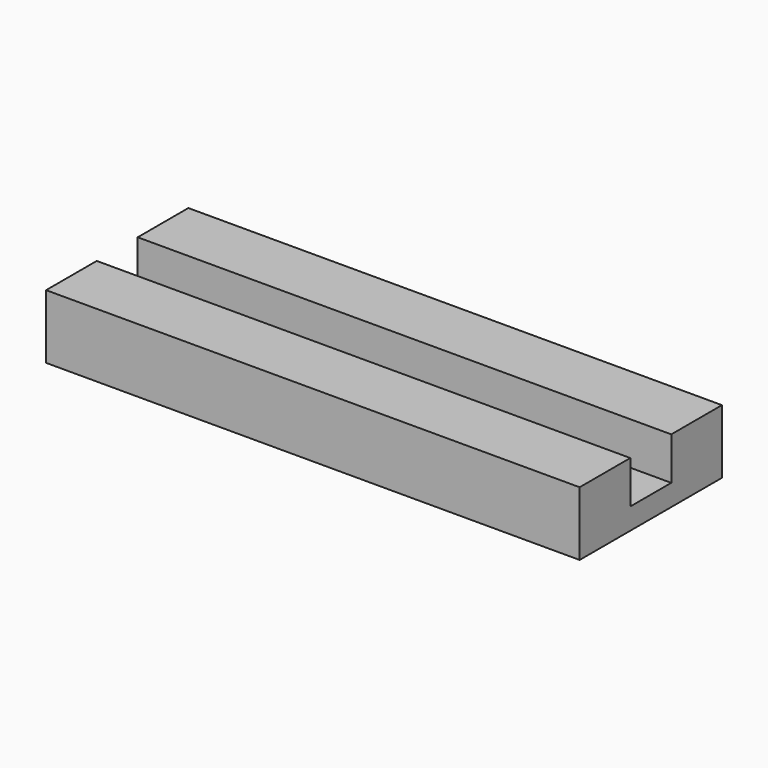
from build123d import *

# Parameters (mm, degrees)
F0_W     = 19.05
F0_H     = 1.8288
F0_R     = 0.3175
F1_DEPTH = 0.762
F0_H_2   = 2.2606
F2_DEPTH = 2.286


with BuildPart() as f1:
    # F0 (on Top) → F1 (new body)
    with BuildSketch(Plane.XY):
        Rectangle(F0_W, F0_H)
        with Locations((-6.35, 0)):
            Circle(F0_R, mode=Mode.SUBTRACT)
        with Locations((6.35, 0)):
            Circle(F0_R, mode=Mode.SUBTRACT)
    extrude(amount=F1_DEPTH)

    # F0 (on Top) → F2 (join)
    with BuildSketch(Plane.XY):
        with Locations((0, -2.0447)):
            Rectangle(F0_W, F0_H_2)
        with Locations((0, 2.0447)):
            Rectangle(F0_W, F0_H_2)
    extrude(amount=F2_DEPTH)


solid = f1.part
